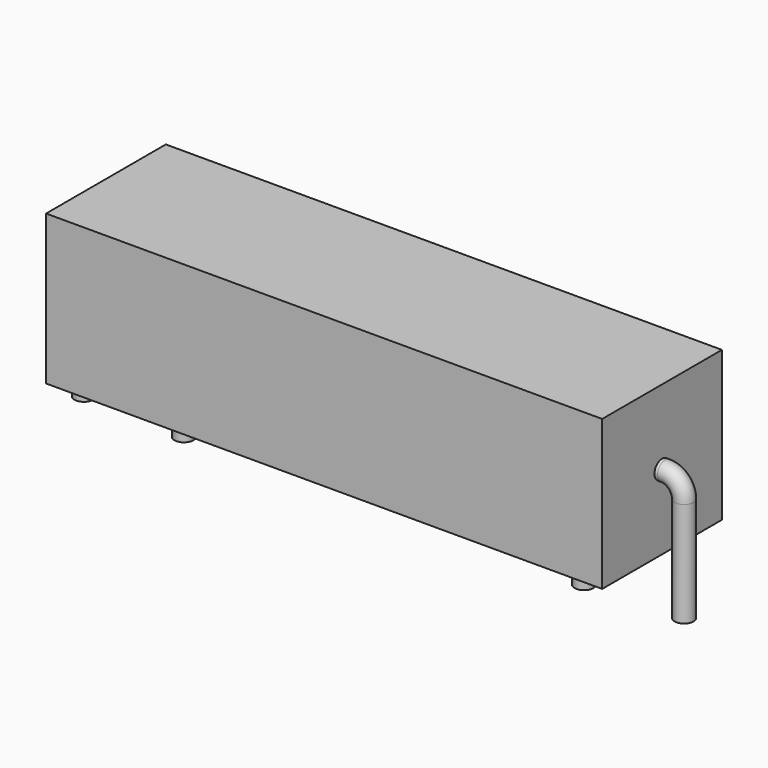
from build123d import *

# Parameters (mm, degrees)
SKETCH_R     = 0.6
SKETCH002_W  = 35.3
SKETCH002_H  = 9.5
PAD_DEPTH    = 4.75
SKETCH004_R  = 0.6
PAD001_DEPTH = 3


with BuildPart() as sweep_body:
    # Sweep: sweep along a path in Sketch001
    with BuildLine(Plane.XZ) as sweep_path:
        Line((0, -3), (0, 3.65))
        ThreePointArc((0, 3.65), (0.351468, 4.498524), (1.199988, 4.85))
        Line((1.199988, 4.85), (36.9, 4.85))
        ThreePointArc((36.9, 4.85), (37.748528, 4.498528), (38.1, 3.65))
        Line((38.1, 3.65), (38.1, -3))
    # Sketch → Sweep (sweep)
    with BuildSketch(Plane.XY.offset(-2)):
        Circle(SKETCH_R)
    sweep(path=sweep_path.line)


with BuildPart() as pad:
    # Sketch002 → Pad (new body, symmetric)
    with BuildSketch(Plane.XZ):
        with Locations((19.05, 4.85)):
            Rectangle(SKETCH002_W, SKETCH002_H)
    extrude(amount=PAD_DEPTH, both=True)


with BuildPart() as pad001:
    # Sketch004 → Pad001 (new body, symmetric)
    with BuildSketch(Plane.XY.offset(-0.2)):
        with Locations((6.35, 0)):
            Circle(SKETCH004_R)
        with Locations((31.75, 0)):
            Circle(SKETCH004_R)
    extrude(amount=PAD001_DEPTH, both=True)


solid = Compound([sweep_body.part, pad.part, pad001.part])
